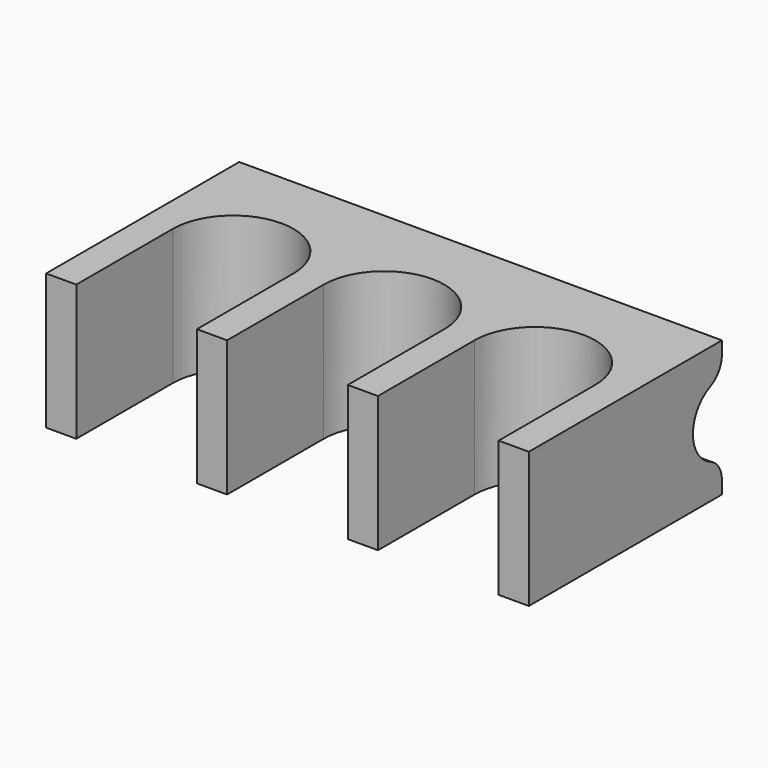
from build123d import *

# Parameters (mm, degrees)
PAD_DEPTH    = 45
SKETCH001_R  = 12
POCKET_DEPTH = 160.001
FILLET_R     = 8


with BuildPart() as part:
    # Sketch → Pad (new body)
    with BuildSketch(Plane.XY):
        with BuildLine():
            ThreePointArc((-30, 0), (-50, 20), (-70, 0))
            Line((-70, 0), (-70, -40))
            Line((-70, -40), (-80, -40))
            Line((-80, 40), (-80, -40))
            Line((80, 40), (-80, 40))
            Line((80, -40), (80, 40))
            Line((70, -40), (80, -40))
            Line((70, 0), (70, -40))
            ThreePointArc((70, 0), (49.999978, 20), (30, -4.5e-05))
            Line((30, -4.5e-05), (30, -40.000045))
            Line((20, -40.000045), (30, -40.000045))
            Line((20, -4.5e-05), (20, -40.000045))
            ThreePointArc((20, -4.5e-05), (2.2e-05, 20), (-20, 0))
            Line((-20, 0), (-20, -40))
            Line((-30, -40), (-20, -40))
            Line((-30, 0), (-30, -40))
        make_face()
    extrude(amount=PAD_DEPTH)

    # Sketch001 → Pocket (cut, through all)
    with BuildSketch(Plane(origin=(-80, 0, 0), x_dir=(0, -1, 0), z_dir=(-1, 0, 0))):
        with Locations((-40, 22.5)):
            Circle(SKETCH001_R)
    extrude(amount=-POCKET_DEPTH, mode=Mode.SUBTRACT)

    # Fillet
    fillet_edges = [part.edges().sort_by_distance(p)[0] for p in [
        (0, 40, 34.5),
        (0, 40, 10.5),
    ]]
    fillet(fillet_edges, radius=FILLET_R)


solid = part.part
